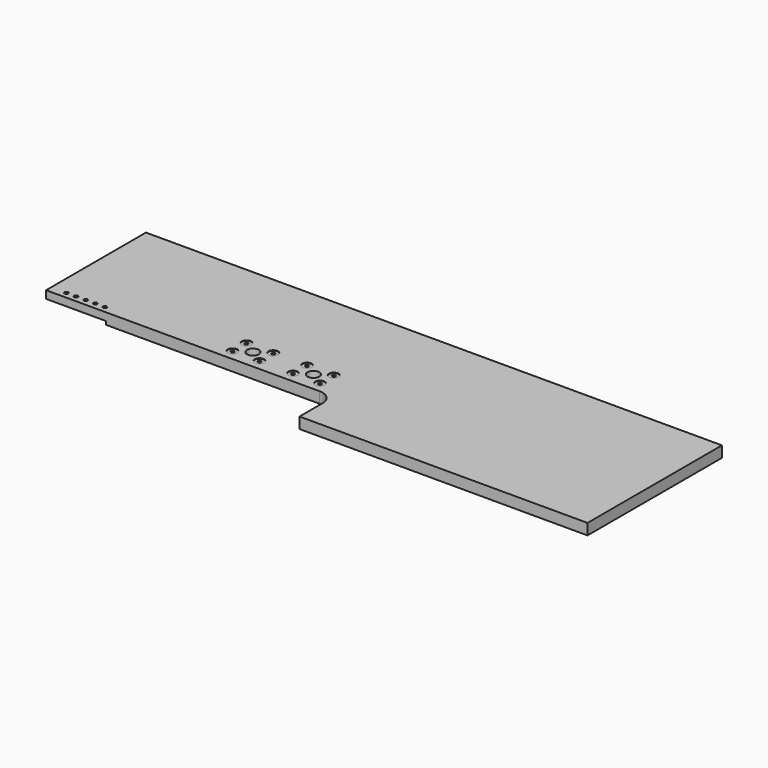
from build123d import *

# Parameters (mm, degrees)
F1_DEPTH  = 18
F3_DEPTH  = 5
F5_DEPTH  = 7
F6_R      = 12.5
F6_R_2    = 3.5
F7_DEPTH  = 25
F8_R      = 10
F8_R_2    = 3.5
F9_DEPTH  = 1
F10_R     = 3.902724
F11_DEPTH = 25


with BuildPart() as f1:
    # F0 (on Top) → F1 (new body)
    with BuildSketch(Plane.XY):
        with BuildLine():
            Line((600, 60), (600, 0))
            Line((600, 0), (1200, 0))
            Line((1200, 0), (1200, 350))
            Line((1200, 350), (0, 350))
            Line((0, 350), (0, 90))
            Line((0, 90), (570, 90))
            ThreePointArc((570, 90), (591.213203, 81.213203), (600, 60))
        make_face()
        with BuildLine():
            Line((600, 60), (600, 0))
            Line((600, 0), (1200, 0))
            Line((1200, 0), (1200, 350))
            Line((1200, 350), (0, 350))
            Line((0, 350), (0, 90))
            Line((0, 90), (570, 90))
            ThreePointArc((570, 90), (591.213203, 81.213203), (600, 60))
        make_face()
    extrude(amount=F1_DEPTH)

    # F2 (on face) → F3 (join)
    with BuildSketch(Plane(origin=(0, 0, 0), x_dir=(1, 0, 0), z_dir=(0, 0, -1))):
        with BuildLine():
            Line((600, 0), (600, -60))
            ThreePointArc((600, -60), (591.213203, -81.213203), (570, -90))
            Line((570, -90), (0, -90))
            Line((0, -90), (0, -350))
            Line((0, -350), (1200, -350))
            Line((1200, -350), (1200, 0))
            Line((1200, 0), (600, 0))
        make_face()
        with BuildLine():
            Line((369, -105), (555, -105))
            ThreePointArc((555, -105), (558.535534, -106.464466), (560, -110))
            Line((560, -110), (560, -150))
            ThreePointArc((560, -150), (558.535534, -153.535534), (555, -155))
            Line((555, -155), (369, -155))
            ThreePointArc((369, -155), (365.464466, -153.535534), (364, -150))
            Line((364, -150), (364, -110))
            ThreePointArc((364, -110), (365.464466, -106.464466), (369, -105))
        make_face(mode=Mode.SUBTRACT)
    extrude(amount=F3_DEPTH)

    # F4 (on face) → F5 (cut)
    with BuildSketch(Plane(origin=(0, 0, -5), x_dir=(1, 0, 0), z_dir=(0, 0, -1))):
        with BuildLine():
            Line((125, -90), (0, -90))
            Line((0, -90), (0, -114.8))
            Line((0, -114.8), (120, -114.8))
            ThreePointArc((120, -114.8), (123.535534, -113.335534), (125, -109.8))
            Line((125, -109.8), (125, -90))
        make_face()
    extrude(amount=-F5_DEPTH, mode=Mode.SUBTRACT)

    # F6 (on face) → F7 (cut)
    with BuildSketch(Plane(origin=(0, 0, 0), x_dir=(1, 0, 0), z_dir=(0, 0, -1))):
        with Locations((525, -130)):
            Circle(F6_R)
        with Locations((399, -130)):
            Circle(F6_R)
        with Locations((371, -112)):
            Circle(F6_R_2)
        with Locations((427, -112)):
            Circle(F6_R_2)
        with Locations((371, -148)):
            Circle(F6_R_2)
        with Locations((427, -148)):
            Circle(F6_R_2)
        with Locations((497, -148)):
            Circle(F6_R_2)
        with Locations((497, -112)):
            Circle(F6_R_2)
        with Locations((553, -112)):
            Circle(F6_R_2)
        with Locations((553, -148)):
            Circle(F6_R_2)
    extrude(amount=-F7_DEPTH, mode=Mode.SUBTRACT)

    # F8 (on face) → F9 (cut)
    with BuildSketch(Plane.XY.offset(18)):
        with Locations((371, 148)):
            Circle(F8_R)
        with Locations((371, 148)):
            Circle(F8_R_2, mode=Mode.SUBTRACT)
        with Locations((427, 148)):
            Circle(F8_R)
        with Locations((427, 148)):
            Circle(F8_R_2, mode=Mode.SUBTRACT)
        with Locations((497, 148)):
            Circle(F8_R)
        with Locations((497, 148)):
            Circle(F8_R_2, mode=Mode.SUBTRACT)
        with Locations((553, 148)):
            Circle(F8_R)
        with Locations((553, 148)):
            Circle(F8_R_2, mode=Mode.SUBTRACT)
        with Locations((553, 112)):
            Circle(F8_R)
        with Locations((553, 112)):
            Circle(F8_R_2, mode=Mode.SUBTRACT)
        with Locations((497, 112)):
            Circle(F8_R)
        with Locations((497, 112)):
            Circle(F8_R_2, mode=Mode.SUBTRACT)
        with Locations((427, 112)):
            Circle(F8_R)
        with Locations((427, 112)):
            Circle(F8_R_2, mode=Mode.SUBTRACT)
        with Locations((371, 112)):
            Circle(F8_R)
        with Locations((371, 112)):
            Circle(F8_R_2, mode=Mode.SUBTRACT)
    extrude(amount=-F9_DEPTH, mode=Mode.SUBTRACT)

    # F10 (on face) → F11 (cut)
    with BuildSketch(Plane(origin=(0, 0, 2), x_dir=(1, 0, 0), z_dir=(0, 0, -1))):
        with Locations((111.9, -103.2)):
            Circle(F10_R)
        with Locations((91.9, -103.2)):
            Circle(F10_R)
        with Locations((71.9, -103.2)):
            Circle(F10_R)
        with Locations((51.9, -103.2)):
            Circle(F10_R)
        with Locations((31.9, -103.2)):
            Circle(F10_R)
    extrude(amount=-F11_DEPTH, mode=Mode.SUBTRACT)


solid = f1.part
